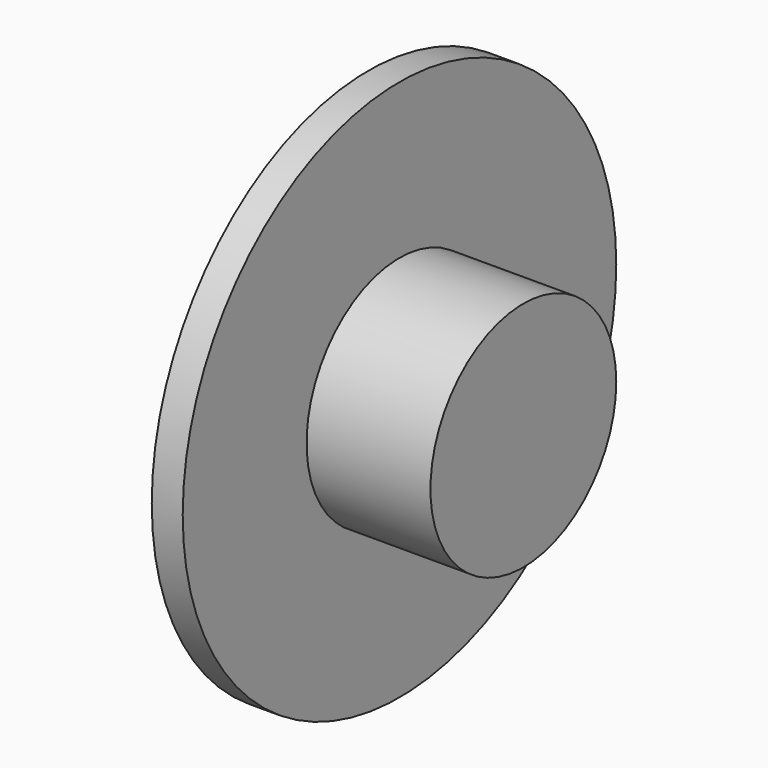
from build123d import *

# Parameters (mm, degrees)
F0_R     = 11.1125
F0_R_2   = 4.7625
F1_DEPTH = 1.27
F2_DEPTH = 6.35


with BuildPart() as f1:
    # F0 (on Right) → F1 (new body)
    with BuildSketch(Plane.YZ):
        Circle(F0_R)
        Circle(F0_R_2, mode=Mode.SUBTRACT)
    extrude(amount=F1_DEPTH)

    # F0 (on Right) → F2 (join)
    with BuildSketch(Plane.YZ):
        Circle(F0_R_2)
    extrude(amount=F2_DEPTH)


solid = f1.part
